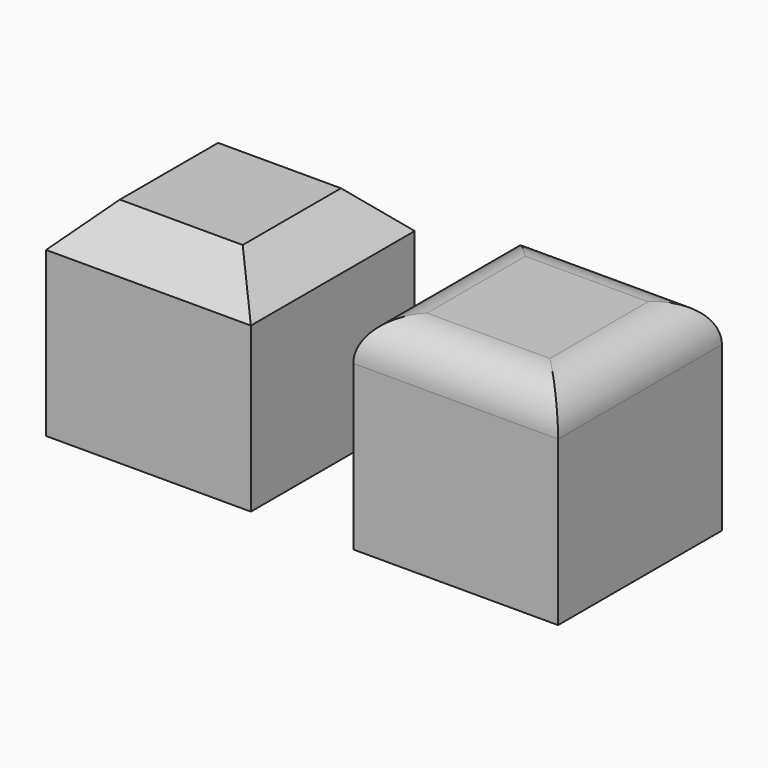
from build123d import *

# Parameters (mm, degrees)
BOX_W        = 10
BOX_H        = 10
BOX_DEPTH    = 10
CHAMFER_SIZE = 2
BOX001_W     = 10
BOX001_H     = 10
BOX001_DEPTH = 10
FILLET_R     = 2


with BuildPart() as chamfer_body:
    # Box → Box (new body)
    with BuildSketch(Plane.XY):
        with Locations((5, 5)):
            Rectangle(BOX_W, BOX_H)
    extrude(amount=BOX_DEPTH)

    # Chamfer
    chamfer_edges = [chamfer_body.edges().sort_by_distance(p)[0] for p in [
        (0, 5, 10),
        (10, 5, 10),
        (5, 0, 10),
        (5, 10, 10),
    ]]
    chamfer(chamfer_edges, length=CHAMFER_SIZE)


with BuildPart() as fillet_body:
    # Box001 → Box001 (new body)
    with BuildSketch(Plane(origin=(15, 0, 0), x_dir=(1, 0, 0), z_dir=(0, 0, 1))):
        with Locations((5, 5)):
            Rectangle(BOX001_W, BOX001_H)
    extrude(amount=BOX001_DEPTH)

    # Fillet
    fillet_edges = [fillet_body.edges().sort_by_distance(p)[0] for p in [
        (15, 5, 10),
        (25, 5, 10),
        (20, 0, 10),
        (20, 10, 10),
    ]]
    fillet(fillet_edges, radius=FILLET_R)


solid = Compound([chamfer_body.part, fillet_body.part])
